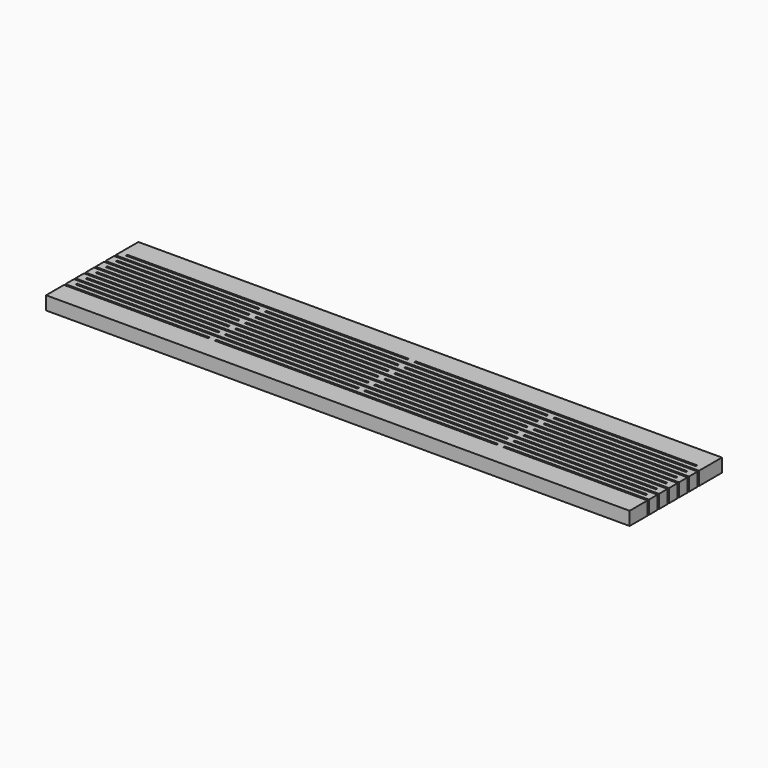
from build123d import *

# Parameters (mm, degrees)
F0_W     = 63
F0_H     = 0.4
F1_DEPTH = 3


with BuildPart() as f1:
    # F0 (on Top) → F1 (new body)
    with BuildSketch(Plane.XY):
        Polygon((42.2626923621, 7.6849870265), (42.2626923621, 14.0849870265), (-88.2373076379, 14.0849870265), (-88.2373076379, 7.6849870265), (-55.9873076379, 7.6849870265), (-55.9873076379, 7.2849870265), (-88.2373076379, 7.2849870265), (-88.2373076379, 4.8849870265), (-55.9873076379, 4.8849870265), (-55.9873076379, 4.4849870265), (-88.2373076379, 4.4849870265), (-88.2373076379, 2.0849870265), (-55.9873076379, 2.0849870265), (-55.9873076379, 1.6849870265), (-88.2373076379, 1.6849870265), (-88.2373076379, -0.7150129735), (-55.9873076379, -0.7150129735), (-55.9873076379, -1.1150129735), (-88.2373076379, -1.1150129735), (-88.2373076379, -3.5150129735), (-55.9873076379, -3.5150129735), (-55.9873076379, -3.9150129735), (-88.2373076379, -3.9150129735), (-88.2373076379, -6.3150129735), (-55.9873076379, -6.3150129735), (-55.9873076379, -6.7150129735), (-88.2373076379, -6.7150129735), (-88.2373076379, -11.7150129735), (42.2626923621, -11.7150129735), (42.2626923621, -6.7150129735), (10.0126923621, -6.7150129735), (10.0126923621, -6.3150129735), (42.2626923621, -6.3150129735), (42.2626923621, -3.9150129735), (10.0126923621, -3.9150129735), (10.0126923621, -3.5150129735), (42.2626923621, -3.5150129735), (42.2626923621, -1.1150129735), (10.0126923621, -1.1150129735), (10.0126923621, -0.7150129735), (42.2626923621, -0.7150129735), (42.2626923621, 1.6849870265), (10.0126923621, 1.6849870265), (10.0126923621, 2.0849870265), (42.2626923621, 2.0849870265), (42.2626923621, 4.4849870265), (10.0126923621, 4.4849870265), (10.0126923621, 4.8849870265), (42.2626923621, 4.8849870265), (42.2626923621, 7.2849870265), (10.0126923621, 7.2849870265), (10.0126923621, 7.6849870265), align=None)
        with Locations((-55.2373076379, -5.1150129735)):
            Rectangle(F0_W, F0_H, mode=Mode.SUBTRACT)
        with Locations((-55.2373076379, -2.3150129735)):
            Rectangle(F0_W, F0_H, mode=Mode.SUBTRACT)
        with Locations((-55.2373076379, 0.4849870265)):
            Rectangle(F0_W, F0_H, mode=Mode.SUBTRACT)
        with Locations((-22.9873076379, -6.5150129735)):
            Rectangle(F0_W, F0_H, mode=Mode.SUBTRACT)
        with Locations((-22.9873076379, -3.7150129735)):
            Rectangle(F0_W, F0_H, mode=Mode.SUBTRACT)
        with Locations((9.2626923621, -5.1150129735)):
            Rectangle(F0_W, F0_H, mode=Mode.SUBTRACT)
        with Locations((9.2626923621, -2.3150129735)):
            Rectangle(F0_W, F0_H, mode=Mode.SUBTRACT)
        with Locations((-22.9873076379, -0.9150129735)):
            Rectangle(F0_W, F0_H, mode=Mode.SUBTRACT)
        with Locations((9.2626923621, 0.4849870265)):
            Rectangle(F0_W, F0_H, mode=Mode.SUBTRACT)
        with Locations((-55.2373076379, 3.2849870265)):
            Rectangle(F0_W, F0_H, mode=Mode.SUBTRACT)
        with Locations((-55.2373076379, 6.0849870265)):
            Rectangle(F0_W, F0_H, mode=Mode.SUBTRACT)
        with Locations((-55.2373076379, 8.8849870265)):
            Rectangle(F0_W, F0_H, mode=Mode.SUBTRACT)
        with Locations((-22.9873076379, 1.8849870265)):
            Rectangle(F0_W, F0_H, mode=Mode.SUBTRACT)
        with Locations((9.2626923621, 3.2849870265)):
            Rectangle(F0_W, F0_H, mode=Mode.SUBTRACT)
        with Locations((-22.9873076379, 4.6849870265)):
            Rectangle(F0_W, F0_H, mode=Mode.SUBTRACT)
        with Locations((-22.9873076379, 7.4849870265)):
            Rectangle(F0_W, F0_H, mode=Mode.SUBTRACT)
        with Locations((9.2626923621, 6.0849870265)):
            Rectangle(F0_W, F0_H, mode=Mode.SUBTRACT)
        with Locations((9.2626923621, 8.8849870265)):
            Rectangle(F0_W, F0_H, mode=Mode.SUBTRACT)
    extrude(amount=F1_DEPTH)


solid = f1.part
